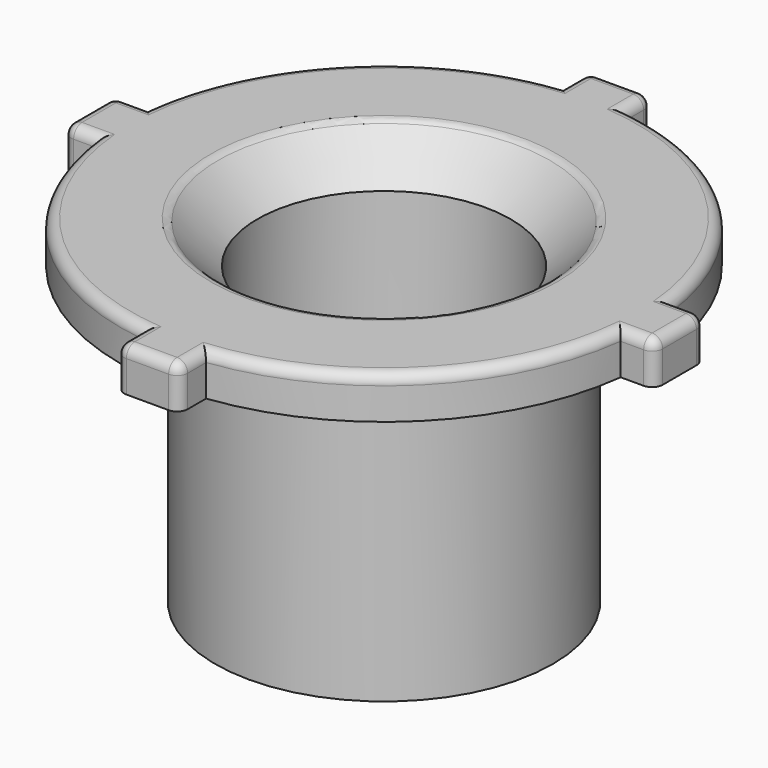
from build123d import *

# Parameters (mm, degrees)
F0_R     = 4
F0_R_2   = 3
F1_DEPTH = 7
F2_R     = 3
F3_DEPTH = 1
F4_SIZE  = 1
F5_R     = 0.25


with BuildPart() as f1:
    # F0 (on Top) → F1 (new body)
    with BuildSketch(Plane.XY):
        Circle(F0_R)
        Circle(F0_R_2, mode=Mode.SUBTRACT)
    extrude(amount=F1_DEPTH)

    # F2 (on face) → F3 (join)
    with BuildSketch(Plane.XY.offset(7)):
        with BuildLine():
            ThreePointArc((6.204836823, -0.75), (6.2386989887, -0.3756792889), (6.25, 0))
            ThreePointArc((6.25, 0), (6.2386989887, 0.3756792889), (6.204836823, 0.75))
            Line((6.204836823, 0.75), (5.5, 0.75))
            Line((5.5, 0.75), (5.5, -0.75))
            Line((5.5, -0.75), (6.204836823, -0.75))
        make_face()
        with BuildLine():
            ThreePointArc((6.204836823, 0.75), (6.2386989887, 0.3756792889), (6.25, 0))
            ThreePointArc((6.25, 0), (6.2386989887, -0.3756792889), (6.204836823, -0.75))
            Line((6.204836823, -0.75), (7, -0.75))
            Line((7, -0.75), (7, 0.75))
            Line((7, 0.75), (6.204836823, 0.75))
        make_face()
        with BuildLine():
            Line((5.5, 0.75), (6.204836823, 0.75))
            ThreePointArc((6.204836823, 0.75), (4.4194173824, 4.4194173824), (0.75, 6.204836823))
            Line((0.75, 6.204836823), (0.75, 5.5))
            Line((0.75, 5.5), (-0.75, 5.5))
            Line((-0.75, 5.5), (-0.75, 6.204836823))
            ThreePointArc((-0.75, 6.204836823), (-4.4194173824, 4.4194173824), (-6.204836823, 0.75))
            Line((-6.204836823, 0.75), (-5.5, 0.75))
            Line((-5.5, 0.75), (-5.5, -0.75))
            Line((-5.5, -0.75), (-6.204836823, -0.75))
            ThreePointArc((-6.204836823, -0.75), (-4.4194173824, -4.4194173824), (-0.75, -6.204836823))
            Line((-0.75, -6.204836823), (-0.75, -5.5))
            Line((-0.75, -5.5), (0.75, -5.5))
            Line((0.75, -5.5), (0.75, -6.204836823))
            ThreePointArc((0.75, -6.204836823), (4.4194173824, -4.4194173824), (6.204836823, -0.75))
            Line((6.204836823, -0.75), (5.5, -0.75))
            Line((5.5, -0.75), (5.5, 0.75))
        make_face()
        Circle(F2_R, mode=Mode.SUBTRACT)
        with BuildLine():
            Line((0.75, 5.5), (0.75, 6.204836823))
            ThreePointArc((0.75, 6.204836823), (0, 6.25), (-0.75, 6.204836823))
            Line((-0.75, 6.204836823), (-0.75, 5.5))
            Line((-0.75, 5.5), (0.75, 5.5))
        make_face()
        with BuildLine():
            ThreePointArc((-0.75, 6.204836823), (0, 6.25), (0.75, 6.204836823))
            Line((0.75, 6.204836823), (0.75, 7))
            Line((0.75, 7), (-0.75, 7))
            Line((-0.75, 7), (-0.75, 6.204836823))
        make_face()
        with BuildLine():
            Line((0.75, -7), (0.75, -6.204836823))
            ThreePointArc((0.75, -6.204836823), (0, -6.25), (-0.75, -6.204836823))
            Line((-0.75, -6.204836823), (-0.75, -7))
            Line((-0.75, -7), (0.75, -7))
        make_face()
        with BuildLine():
            ThreePointArc((-0.75, -6.204836823), (0, -6.25), (0.75, -6.204836823))
            Line((0.75, -6.204836823), (0.75, -5.5))
            Line((0.75, -5.5), (-0.75, -5.5))
            Line((-0.75, -5.5), (-0.75, -6.204836823))
        make_face()
        with BuildLine():
            Line((-5.5, 0.75), (-6.204836823, 0.75))
            ThreePointArc((-6.204836823, 0.75), (-6.25, 0), (-6.204836823, -0.75))
            Line((-6.204836823, -0.75), (-5.5, -0.75))
            Line((-5.5, -0.75), (-5.5, 0.75))
        make_face()
        with BuildLine():
            ThreePointArc((-6.204836823, -0.75), (-6.25, 0), (-6.204836823, 0.75))
            Line((-6.204836823, 0.75), (-7, 0.75))
            Line((-7, 0.75), (-7, -0.75))
            Line((-7, -0.75), (-6.204836823, -0.75))
        make_face()
    extrude(amount=F3_DEPTH)

    # F4
    f4_edges = [f1.edges().sort_by_distance(p)[0] for p in [
        (-3, 0, 8),
        (-4, 0, 7),
    ]]
    chamfer(f4_edges, length=F4_SIZE)

    # F5
    f5_edges = [f1.edges().sort_by_distance(p)[0] for p in [
        (-7, -0.75, 7.5),
        (-7, 0.75, 7.5),
        (-0.75, -7, 7.5),
        (0.75, -7, 7.5),
        (7, -0.75, 7.5),
        (7, 0.75, 7.5),
        (0.75, 7, 7.5),
        (-0.75, 7, 7.5),
        (-4, 0, 8),
        (6.602418, -0.75, 8),
        (7, 0, 8),
        (6.602418, 0.75, 8),
        (4.419417, 4.419417, 8),
        (0.75, 6.602418, 8),
        (0, 7, 8),
        (-0.75, 6.602418, 8),
        (-4.419417, 4.419417, 8),
        (-6.602418, 0.75, 8),
        (-7, 0, 8),
        (-6.602418, -0.75, 8),
        (-4.419417, -4.419417, 8),
        (-0.75, -6.602418, 8),
        (0, -7, 8),
        (0.75, -6.602418, 8),
        (4.419417, -4.419417, 8),
    ]]
    fillet(f5_edges, radius=F5_R)


solid = f1.part
